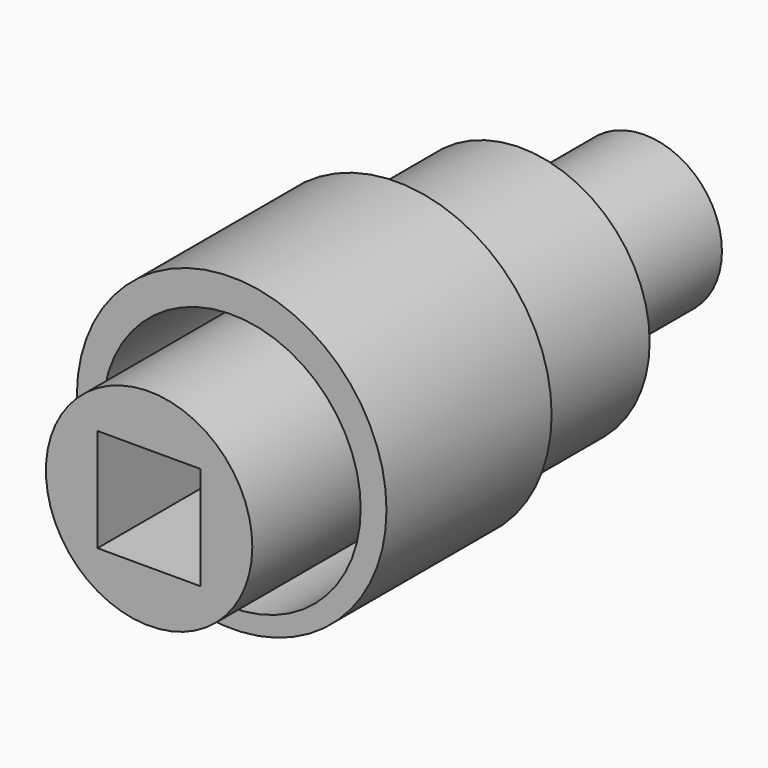
from build123d import *

# Parameters (mm, degrees)
F0_R     = 76.2
F0_R_2   = 63.5
F1_DEPTH = 101.6
F0_R_3   = 50.8
F2_DEPTH = 76.2
F0_R_4   = 38.1
F3_DEPTH = 152.4
F0_W     = 50.8
F0_H     = 50.8
F4_DEPTH = 152.4


with BuildPart() as f1:
    # F0 (on Front) → F1 (new body)
    with BuildSketch(Plane.XZ):
        with Locations((0, 3.502742)):
            Circle(F0_R)
        Circle(F0_R_2, mode=Mode.SUBTRACT)
    extrude(amount=F1_DEPTH)

    # F0 (on Front) → F2 (join)
    with BuildSketch(Plane.XZ):
        Circle(F0_R_2)
        Circle(F0_R_3, mode=Mode.SUBTRACT)
    extrude(amount=-F2_DEPTH)


with BuildPart() as f3:
    # F0 (on Front) → F3 (new body)
    with BuildSketch(Plane.XZ):
        Circle(F0_R_3)
        Circle(F0_R_4, mode=Mode.SUBTRACT)
    extrude(amount=F3_DEPTH)

    # F0 (on Front) → F4 (join, symmetric)
    with BuildSketch(Plane.XZ):
        Circle(F0_R_4)
        Rectangle(F0_W, F0_H, mode=Mode.SUBTRACT)
    extrude(amount=F4_DEPTH, both=True)


solid = Compound([f1.part, f3.part])
